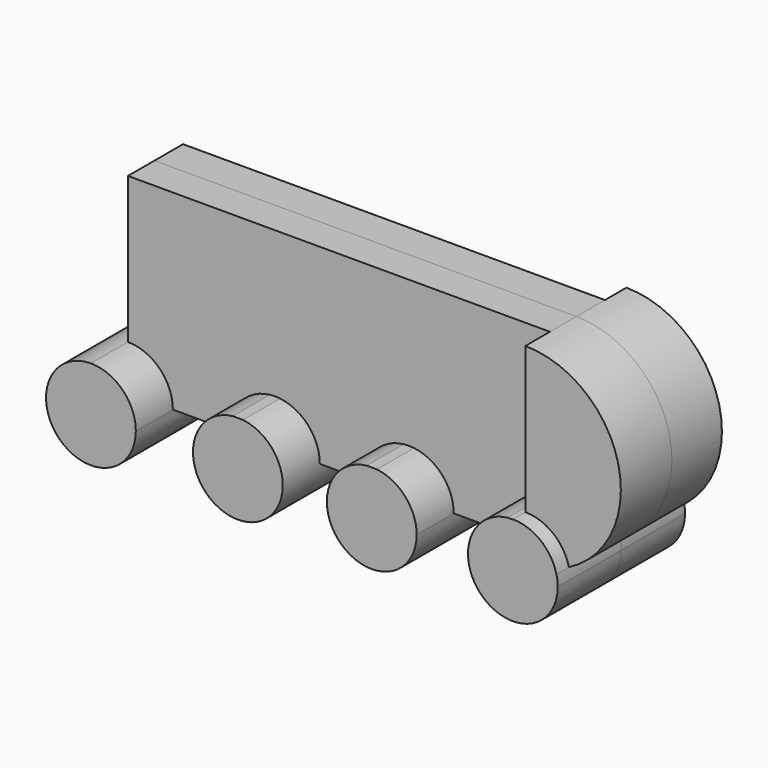
from build123d import *

# Parameters (mm, degrees)
F1_DEPTH = 60.96
F2_DEPTH = 61.214
F0_W     = 287.0590090752
F0_H     = 33.863581717
F3_DEPTH = 25.4
F4_DEPTH = 27.432
F5_DEPTH = 49.022
F6_DEPTH = 48.006


with BuildPart() as f1:
    # F0 (on Front) → F1 (new body)
    with BuildSketch(Plane.XZ):
        with BuildLine():
            ThreePointArc((-112.8502339125, 34.4747126152), (-137.2275369821, -24.3773030697), (-78.3755212973, 0))
            Line((-78.3755212973, 0), (-112.8502339125, 0))
            Line((-112.8502339125, 0), (-112.8502339125, 34.4747126152))
        make_face()
        with BuildLine():
            Line((-112.8502339125, 0), (-78.3755212973, 0))
            ThreePointArc((-78.3755212973, 0), (-88.4729308428, 24.3773030697), (-112.8502339125, 34.4747126152))
            Line((-112.8502339125, 34.4747126152), (-112.8502339125, 0))
        make_face()
    extrude(amount=F1_DEPTH)


with BuildPart() as f1b:
    # F0 (on Front) → F1, piece 2 (new body)
    with BuildSketch(Plane.XZ):
        with BuildLine():
            Line((34.4747126152, 0), (-34.4747126152, 0))
            ThreePointArc((-34.4747126152, 0), (0, -34.4747126152), (34.4747126152, 0))
        make_face()
        with BuildLine():
            ThreePointArc((-3.9774071478, 34.2445038259), (-25.7451527309, 22.9279942595), (-34.4747126152, 0))
            Line((-34.4747126152, 0), (34.4747126152, 0))
            ThreePointArc((34.4747126152, 0), (25.7451527309, 22.9279942595), (3.9774071478, 34.2445038259))
            Line((3.9774071478, 34.2445038259), (-3.9774071478, 34.2445038259))
        make_face()
    extrude(amount=F1_DEPTH)


with BuildPart() as f1c:
    # F0 (on Front) → F1, piece 3 (new body)
    with BuildSketch(Plane.XZ):
        with BuildLine():
            Line((137.3094663074, 0), (68.3600410769, 0))
            ThreePointArc((68.3600410769, 0), (102.8347536922, -34.4747126152), (137.3094663074, 0))
        make_face()
        with BuildLine():
            ThreePointArc((98.8573465443, 34.2445038259), (77.0896009612, 22.9279942595), (68.3600410769, 0))
            Line((68.3600410769, 0), (137.3094663074, 0))
            ThreePointArc((137.3094663074, 0), (128.5799064231, 22.9279942595), (106.81216084, 34.2445038259))
            Line((106.81216084, 34.2445038259), (98.8573465443, 34.2445038259))
        make_face()
    extrude(amount=F1_DEPTH)


with BuildPart() as f1d:
    # F0 (on Front) → F1, piece 4 (new body)
    with BuildSketch(Plane.XZ):
        with BuildLine():
            Line((211.1982256174, 0), (176.7235130022, 0))
            ThreePointArc((176.7235130022, 0), (211.1982256174, -34.4747126152), (245.6729382326, 0))
            ThreePointArc((245.6729382326, 0), (245.4309760234, 4.0773287267), (244.7084858393, 8.0974236497))
            ThreePointArc((244.7084858393, 8.0974236497), (228.435581925, 2.0530739485), (211.1982256174, 0))
        make_face()
        with BuildLine():
            ThreePointArc((207.2208184696, 34.2445038259), (185.4530728865, 22.9279942595), (176.7235130022, 0))
            Line((176.7235130022, 0), (211.1982256174, 0))
            Line((211.1982256174, 0), (211.1982256174, 34.2445038259))
            Line((211.1982256174, 34.2445038259), (207.2208184696, 34.2445038259))
        make_face()
        with BuildLine():
            ThreePointArc((244.7084858393, 8.0974236497), (232.5213287764, 27.0893167425), (211.1982256174, 34.4747126152))
            Line((211.1982256174, 34.4747126152), (211.1982256174, 34.2445038259))
            Line((211.1982256174, 34.2445038259), (211.1982256174, 0))
            ThreePointArc((211.1982256174, 0), (228.435581925, 2.0530739485), (244.7084858393, 8.0974236497))
        make_face()
    extrude(amount=F1_DEPTH)


with BuildPart() as f2:
    # F0 (on Front) → F2 (new body)
    with BuildSketch(Plane.XZ):
        with BuildLine():
            ThreePointArc((-112.8502339125, 34.4747126152), (-137.2275369821, -24.3773030697), (-78.3755212973, 0))
            Line((-78.3755212973, 0), (-112.8502339125, 0))
            Line((-112.8502339125, 0), (-112.8502339125, 34.4747126152))
        make_face()
        with BuildLine():
            Line((-112.8502339125, 0), (-78.3755212973, 0))
            ThreePointArc((-78.3755212973, 0), (-88.4729308428, 24.3773030697), (-112.8502339125, 34.4747126152))
            Line((-112.8502339125, 34.4747126152), (-112.8502339125, 0))
        make_face()
    extrude(amount=-F2_DEPTH)


with BuildPart() as f2b:
    # F0 (on Front) → F2, piece 2 (new body)
    with BuildSketch(Plane.XZ):
        with BuildLine():
            Line((34.4747126152, 0), (-34.4747126152, 0))
            ThreePointArc((-34.4747126152, 0), (0, -34.4747126152), (34.4747126152, 0))
        make_face()
        with BuildLine():
            ThreePointArc((-3.9774071478, 34.2445038259), (-25.7451527309, 22.9279942595), (-34.4747126152, 0))
            Line((-34.4747126152, 0), (34.4747126152, 0))
            ThreePointArc((34.4747126152, 0), (25.7451527309, 22.9279942595), (3.9774071478, 34.2445038259))
            Line((3.9774071478, 34.2445038259), (-3.9774071478, 34.2445038259))
        make_face()
    extrude(amount=-F2_DEPTH)


with BuildPart() as f2c:
    # F0 (on Front) → F2, piece 3 (new body)
    with BuildSketch(Plane.XZ):
        with BuildLine():
            ThreePointArc((98.8573465443, 34.2445038259), (77.0896009612, 22.9279942595), (68.3600410769, 0))
            Line((68.3600410769, 0), (137.3094663074, 0))
            ThreePointArc((137.3094663074, 0), (128.5799064231, 22.9279942595), (106.81216084, 34.2445038259))
            Line((106.81216084, 34.2445038259), (98.8573465443, 34.2445038259))
        make_face()
        with BuildLine():
            Line((137.3094663074, 0), (68.3600410769, 0))
            ThreePointArc((68.3600410769, 0), (102.8347536922, -34.4747126152), (137.3094663074, 0))
        make_face()
    extrude(amount=-F2_DEPTH)


with BuildPart() as f2d:
    # F0 (on Front) → F2, piece 4 (new body)
    with BuildSketch(Plane.XZ):
        with BuildLine():
            ThreePointArc((207.2208184696, 34.2445038259), (185.4530728865, 22.9279942595), (176.7235130022, 0))
            Line((176.7235130022, 0), (211.1982256174, 0))
            Line((211.1982256174, 0), (211.1982256174, 34.2445038259))
            Line((211.1982256174, 34.2445038259), (207.2208184696, 34.2445038259))
        make_face()
        with BuildLine():
            ThreePointArc((244.7084858393, 8.0974236497), (232.5213287764, 27.0893167425), (211.1982256174, 34.4747126152))
            Line((211.1982256174, 34.4747126152), (211.1982256174, 34.2445038259))
            Line((211.1982256174, 34.2445038259), (211.1982256174, 0))
            ThreePointArc((211.1982256174, 0), (228.435581925, 2.0530739485), (244.7084858393, 8.0974236497))
        make_face()
        with BuildLine():
            Line((211.1982256174, 0), (176.7235130022, 0))
            ThreePointArc((176.7235130022, 0), (211.1982256174, -34.4747126152), (245.6729382326, 0))
            ThreePointArc((245.6729382326, 0), (245.4309760234, 4.0773287267), (244.7084858393, 8.0974236497))
            ThreePointArc((244.7084858393, 8.0974236497), (228.435581925, 2.0530739485), (211.1982256174, 0))
        make_face()
    extrude(amount=-F2_DEPTH)


with BuildPart() as f3:
    # F0 (on Front) → F3 (new body)
    with BuildSketch(Plane.XZ):
        with BuildLine():
            Line((-78.3755212973, 0), (-75.8607834578, 0))
            Line((-75.8607834578, 0), (-75.8607834578, 34.2445038259))
            Line((-75.8607834578, 34.2445038259), (-75.8607834578, 112.9122152925))
            Line((-75.8607834578, 112.9122152925), (-75.8607834578, 146.7757970095))
            Line((-75.8607834578, 146.7757970095), (-112.8502339125, 146.7757970095))
            Line((-112.8502339125, 146.7757970095), (-112.8502339125, 34.4747126152))
            ThreePointArc((-112.8502339125, 34.4747126152), (-88.4729308428, 24.3773030697), (-78.3755212973, 0))
        make_face()
        with BuildLine():
            Line((-75.8607834578, 34.2445038259), (-75.8607834578, 0))
            Line((-75.8607834578, 0), (-34.4747126152, 0))
            ThreePointArc((-34.4747126152, 0), (-25.7451527309, 22.9279942595), (-3.9774071478, 34.2445038259))
            Line((-3.9774071478, 34.2445038259), (-75.8607834578, 34.2445038259))
        make_face()
        with BuildLine():
            ThreePointArc((3.9774071478, 34.2445038259), (25.7451527309, 22.9279942595), (34.4747126152, 0))
            Line((34.4747126152, 0), (68.3600410769, 0))
            ThreePointArc((68.3600410769, 0), (77.0896009612, 22.9279942595), (98.8573465443, 34.2445038259))
            Line((98.8573465443, 34.2445038259), (3.9774071478, 34.2445038259))
        make_face()
        with BuildLine():
            ThreePointArc((106.81216084, 34.2445038259), (128.5799064231, 22.9279942595), (137.3094663074, 0))
            Line((137.3094663074, 0), (176.7235130022, 0))
            ThreePointArc((176.7235130022, 0), (185.4530728865, 22.9279942595), (207.2208184696, 34.2445038259))
            Line((207.2208184696, 34.2445038259), (106.81216084, 34.2445038259))
        make_face()
        with Locations((67.6687210798, 129.844006151)):
            Rectangle(F0_W, F0_H)
        with BuildLine():
            Line((-75.8607834578, 112.9122152925), (-75.8607834578, 34.2445038259))
            Line((-75.8607834578, 34.2445038259), (-3.9774071478, 34.2445038259))
            ThreePointArc((-3.9774071478, 34.2445038259), (0, 34.4747126152), (3.9774071478, 34.2445038259))
            Line((3.9774071478, 34.2445038259), (98.8573465443, 34.2445038259))
            ThreePointArc((98.8573465443, 34.2445038259), (102.8347536922, 34.4747126152), (106.81216084, 34.2445038259))
            Line((106.81216084, 34.2445038259), (207.2208184696, 34.2445038259))
            ThreePointArc((207.2208184696, 34.2445038259), (209.2061937586, 34.4171122986), (211.1982256174, 34.4747126152))
            Line((211.1982256174, 34.4747126152), (211.1982256174, 112.9122152925))
            Line((211.1982256174, 112.9122152925), (-75.8607834578, 112.9122152925))
        make_face()
    extrude(amount=F3_DEPTH)


with BuildPart() as f4:
    # F0 (on Front) → F4 (new body)
    with BuildSketch(Plane.XZ):
        with BuildLine():
            Line((-78.3755212973, 0), (-75.8607834578, 0))
            Line((-75.8607834578, 0), (-75.8607834578, 34.2445038259))
            Line((-75.8607834578, 34.2445038259), (-75.8607834578, 112.9122152925))
            Line((-75.8607834578, 112.9122152925), (-75.8607834578, 146.7757970095))
            Line((-75.8607834578, 146.7757970095), (-112.8502339125, 146.7757970095))
            Line((-112.8502339125, 146.7757970095), (-112.8502339125, 34.4747126152))
            ThreePointArc((-112.8502339125, 34.4747126152), (-88.4729308428, 24.3773030697), (-78.3755212973, 0))
        make_face()
        with BuildLine():
            Line((-75.8607834578, 34.2445038259), (-75.8607834578, 0))
            Line((-75.8607834578, 0), (-34.4747126152, 0))
            ThreePointArc((-34.4747126152, 0), (-25.7451527309, 22.9279942595), (-3.9774071478, 34.2445038259))
            Line((-3.9774071478, 34.2445038259), (-75.8607834578, 34.2445038259))
        make_face()
        with BuildLine():
            ThreePointArc((3.9774071478, 34.2445038259), (25.7451527309, 22.9279942595), (34.4747126152, 0))
            Line((34.4747126152, 0), (68.3600410769, 0))
            ThreePointArc((68.3600410769, 0), (77.0896009612, 22.9279942595), (98.8573465443, 34.2445038259))
            Line((98.8573465443, 34.2445038259), (3.9774071478, 34.2445038259))
        make_face()
        with BuildLine():
            ThreePointArc((106.81216084, 34.2445038259), (128.5799064231, 22.9279942595), (137.3094663074, 0))
            Line((137.3094663074, 0), (176.7235130022, 0))
            ThreePointArc((176.7235130022, 0), (185.4530728865, 22.9279942595), (207.2208184696, 34.2445038259))
            Line((207.2208184696, 34.2445038259), (106.81216084, 34.2445038259))
        make_face()
        with BuildLine():
            Line((-75.8607834578, 112.9122152925), (-75.8607834578, 34.2445038259))
            Line((-75.8607834578, 34.2445038259), (-3.9774071478, 34.2445038259))
            ThreePointArc((-3.9774071478, 34.2445038259), (0, 34.4747126152), (3.9774071478, 34.2445038259))
            Line((3.9774071478, 34.2445038259), (98.8573465443, 34.2445038259))
            ThreePointArc((98.8573465443, 34.2445038259), (102.8347536922, 34.4747126152), (106.81216084, 34.2445038259))
            Line((106.81216084, 34.2445038259), (207.2208184696, 34.2445038259))
            ThreePointArc((207.2208184696, 34.2445038259), (209.2061937586, 34.4171122986), (211.1982256174, 34.4747126152))
            Line((211.1982256174, 34.4747126152), (211.1982256174, 112.9122152925))
            Line((211.1982256174, 112.9122152925), (-75.8607834578, 112.9122152925))
        make_face()
        with Locations((67.6687210798, 129.844006151)):
            Rectangle(F0_W, F0_H)
    extrude(amount=-F4_DEPTH)


with BuildPart() as f5:
    # F0 (on Front) → F5 (new body)
    with BuildSketch(Plane.XZ):
        with BuildLine():
            Line((211.1982256174, 146.7757970095), (211.1982256174, 112.9122152925))
            Line((211.1982256174, 112.9122152925), (211.1982256174, 34.4747126152))
            ThreePointArc((211.1982256174, 34.4747126152), (232.5213287764, 27.0893167425), (244.7084858393, 8.0974236497))
            ThreePointArc((244.7084858393, 8.0974236497), (282.5330501736, 90.6252548123), (211.1982256174, 146.7757970095))
        make_face()
    extrude(amount=F5_DEPTH)


with BuildPart() as f6:
    # F0 (on Front) → F6 (new body)
    with BuildSketch(Plane.XZ):
        with BuildLine():
            Line((211.1982256174, 146.7757970095), (211.1982256174, 112.9122152925))
            Line((211.1982256174, 112.9122152925), (211.1982256174, 34.4747126152))
            ThreePointArc((211.1982256174, 34.4747126152), (232.5213287764, 27.0893167425), (244.7084858393, 8.0974236497))
            ThreePointArc((244.7084858393, 8.0974236497), (282.5330501736, 90.6252548123), (211.1982256174, 146.7757970095))
        make_face()
    extrude(amount=-F6_DEPTH)


solid = Compound([f1.part, f1b.part, f1c.part, f1d.part, f2.part, f2b.part, f2c.part, f2d.part, f3.part, f4.part, f5.part, f6.part])
